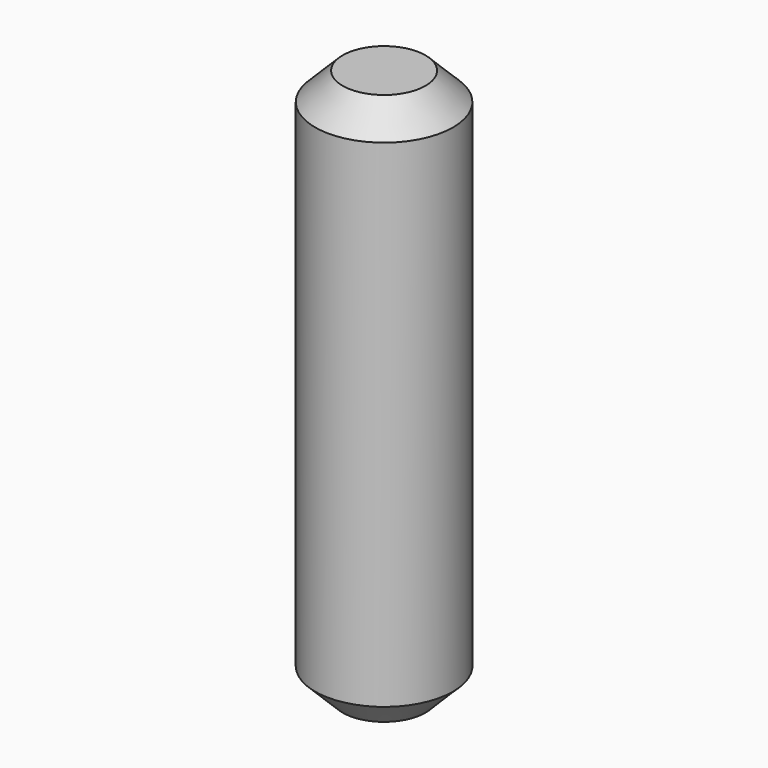
from build123d import *

# Parameters (mm, degrees)
F1_R     = 2.5
F2_DEPTH = 10
F3_SIZE  = 1


with BuildPart() as f2:
    # F1 (on Top) → F2 (new body, symmetric)
    with BuildSketch(Plane.XY):
        Circle(F1_R)
    extrude(amount=F2_DEPTH, both=True)

    # F3
    f3_edges = [f2.edges().sort_by_distance(p)[0] for p in [
        (-2.5, 0, 10),
        (-2.5, 0, -10),
    ]]
    chamfer(f3_edges, length=F3_SIZE)


solid = f2.part
